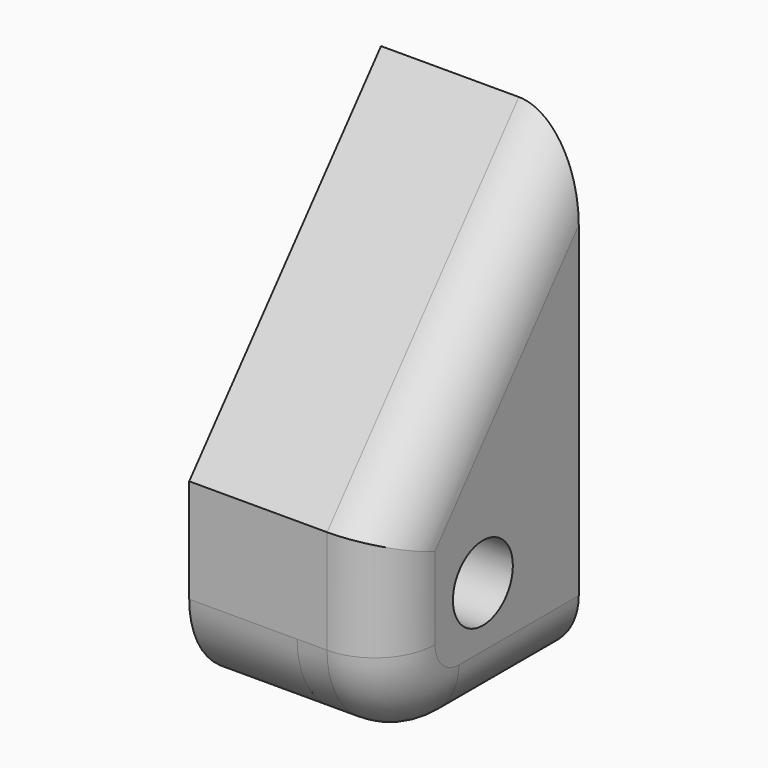
from build123d import *

# Parameters (mm, degrees)
SKETCH062_R  = 1.25
PAD029_DEPTH = 1.8
SKETCH063_R  = 1.25
PAD031_DEPTH = 3
FILLET003_R  = 2


with BuildPart() as part:
    # Sketch062 → Pad029 (new body, symmetric)
    with BuildSketch(Plane.YZ.offset(-41.1)):
        with BuildLine():
            Line((96.000005, 10.999996), (100.999998, 10.999996))
            Line((100.999998, 10.999996), (100.999998, 27))
            Line((100.999998, 27), (92.999998, 17.465971))
            Line((92.999998, 14), (92.999998, 17.465971))
            ThreePointArc((92.999998, 14), (93.878624, 11.87862), (96.000005, 10.999996))
        make_face()
        with Locations((97, 15)):
            Circle(SKETCH062_R, mode=Mode.SUBTRACT)
    extrude(amount=PAD029_DEPTH, both=True)

    # Sketch063 (on Face8 of Clone025) → Pad031 (new body)
    with BuildSketch(Plane.YZ.offset(-39.3)):
        with BuildLine():
            Line((100.999998, 27), (92.999998, 17.465971))
            Line((92.999998, 17.465971), (92.999998, 14))
            ThreePointArc((92.999998, 14), (93.87868, 11.878676), (96.000005, 10.999996))
            Line((96.000005, 10.999996), (100.999998, 10.999996))
            Line((100.999998, 10.999996), (100.999998, 27))
        make_face()
        with Locations((97, 15)):
            Circle(SKETCH063_R, mode=Mode.SUBTRACT)
    extrude(amount=PAD031_DEPTH)

    # Fillet003
    fillet003_edges = [part.edges().sort_by_distance(p)[0] for p in [
        (-36.3, 98.500001, 10.999996),
        (-36.3, 93.87868, 11.878676),
        (-36.3, 92.999998, 15.732986),
        (-36.3, 96.999998, 22.232986),
    ]]
    fillet(fillet003_edges, radius=FILLET003_R)


solid = part.part
